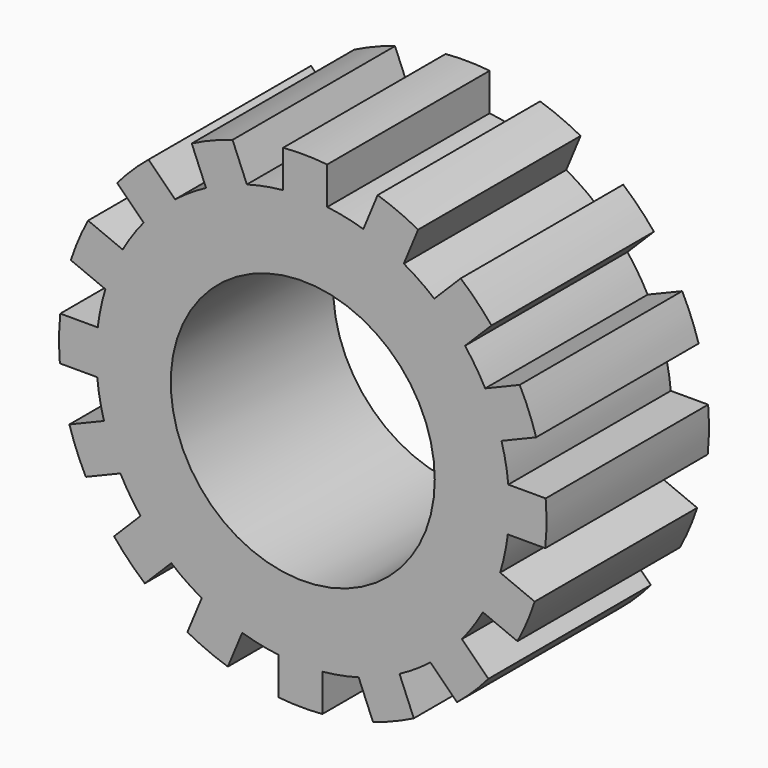
from build123d import *

# Parameters (mm, degrees)
F0_R     = 3.9
F1_DEPTH = 6


with BuildPart() as f1:
    # F0 (on Front) → F1 (new body)
    with BuildSketch(Plane.XZ):
        with BuildLine():
            ThreePointArc((-3.2805490865, 6.4092119399), (-2.6873537016, 6.6763321717), (-2.0745193822, 6.8946623799))
            ThreePointArc((-2.0745193822, 6.8946623799), (-2.68851355, 6.6792136432), (-3.2805490865, 6.4092119399))
        make_face()
        with BuildLine():
            Line((-1.6510477465, 5.8723114136), (-2.0745193822, 6.8946623799))
            ThreePointArc((-2.0745193822, 6.8946623799), (-2.6873537016, 6.6763321717), (-3.2805490865, 6.4092119399))
            Line((-3.2805490865, 6.4092119399), (-2.8579862722, 5.3890550626))
            ThreePointArc((-2.8579862722, 5.3890550626), (-2.2685531961, 5.6657387827), (-1.6510477465, 5.8723114136))
        make_face()
        with BuildLine():
            ThreePointArc((-0.5781329325, 6.0725416682), (-1.119077595, 5.9964710736), (-1.6510477465, 5.8723114136))
            ThreePointArc((-1.6510477465, 5.8723114136), (-2.2674283055, 5.662929355), (-2.8579862722, 5.3890550626))
            ThreePointArc((-2.8579862722, 5.3890550626), (-3.3286430178, 5.1117644371), (-3.7726055079, 4.793479705))
            ThreePointArc((-3.7726055079, 4.793479705), (-4.2619398457, 4.3641572785), (-4.7027371096, 3.8851336757))
            ThreePointArc((-4.7027371096, 3.8851336757), (-5.0314527154, 3.4488380032), (-5.3198182794, 2.9848841642))
            ThreePointArc((-5.3198182794, 2.9848841642), (-5.607609679, 2.4009818176), (-5.8315388526, 1.7897359054))
            ThreePointArc((-5.8315388526, 1.7897359054), (-5.9682693473, 1.2608572472), (-6.0571369422, 0.7218670675))
            ThreePointArc((-6.0571369422, 0.7218670675), (-6.0995717717, 0.0722786399), (-6.0725416682, -0.5781329325))
            ThreePointArc((-6.0725416682, -0.5781329325), (-5.9964710736, -1.119077595), (-5.8723114136, -1.6510477465))
            ThreePointArc((-5.8723114136, -1.6510477465), (-5.662929355, -2.2674283055), (-5.3890550626, -2.8579862722))
            ThreePointArc((-5.3890550626, -2.8579862722), (-5.1117644371, -3.3286430178), (-4.793479705, -3.7726055079))
            ThreePointArc((-4.793479705, -3.7726055079), (-4.3641572785, -4.2619398457), (-3.8851336757, -4.7027371096))
            ThreePointArc((-3.8851336757, -4.7027371096), (-3.4488380032, -5.0314527154), (-2.9848841642, -5.3198182794))
            ThreePointArc((-2.9848841642, -5.3198182794), (-2.4009818176, -5.607609679), (-1.7897359054, -5.8315388526))
            ThreePointArc((-1.7897359054, -5.8315388526), (-1.2608572472, -5.9682693473), (-0.7218670675, -6.0571369422))
            ThreePointArc((-0.7218670675, -6.0571369422), (-0.0722786399, -6.0995717717), (0.5781329325, -6.0725416682))
            ThreePointArc((0.5781329325, -6.0725416682), (1.119077595, -5.9964710736), (1.6510477465, -5.8723114136))
            ThreePointArc((1.6510477465, -5.8723114136), (2.2674283055, -5.662929355), (2.8579862722, -5.3890550626))
            ThreePointArc((2.8579862722, -5.3890550626), (3.3286430178, -5.1117644371), (3.7726055079, -4.793479705))
            ThreePointArc((3.7726055079, -4.793479705), (4.2619398457, -4.3641572785), (4.7027371096, -3.8851336757))
            ThreePointArc((4.7027371096, -3.8851336757), (5.0314527154, -3.4488380032), (5.3198182794, -2.9848841642))
            ThreePointArc((5.3198182794, -2.9848841642), (5.607609679, -2.4009818176), (5.8315388526, -1.7897359054))
            ThreePointArc((5.8315388526, -1.7897359054), (5.9682693473, -1.2608572472), (6.0571369422, -0.7218670675))
            ThreePointArc((6.0571369422, -0.7218670675), (6.0892748069, -0.3615692551), (6.1, 0))
            ThreePointArc((6.1, 0), (6.0931315502, 0.2893923149), (6.0725416682, 0.5781329325))
            ThreePointArc((6.0725416682, 0.5781329325), (5.9964710736, 1.119077595), (5.8723114136, 1.6510477465))
            ThreePointArc((5.8723114136, 1.6510477465), (5.662929355, 2.2674283055), (5.3890550626, 2.8579862722))
            ThreePointArc((5.3890550626, 2.8579862722), (5.1117644371, 3.3286430178), (4.793479705, 3.7726055079))
            ThreePointArc((4.793479705, 3.7726055079), (4.3641572785, 4.2619398457), (3.8851336757, 4.7027371096))
            ThreePointArc((3.8851336757, 4.7027371096), (3.4488380032, 5.0314527154), (2.9848841642, 5.3198182794))
            ThreePointArc((2.9848841642, 5.3198182794), (2.4009818176, 5.607609679), (1.7897359054, 5.8315388526))
            ThreePointArc((1.7897359054, 5.8315388526), (1.2608572472, 5.9682693473), (0.7218670675, 6.0571369422))
            ThreePointArc((0.7218670675, 6.0571369422), (0.0722786399, 6.0995717717), (-0.5781329325, 6.0725416682))
        make_face()
        Circle(F0_R, mode=Mode.SUBTRACT)
        with BuildLine():
            ThreePointArc((-2.8579862722, 5.3890550626), (-2.2674283055, 5.662929355), (-1.6510477465, 5.8723114136))
            ThreePointArc((-1.6510477465, 5.8723114136), (-2.2685531961, 5.6657387827), (-2.8579862722, 5.3890550626))
        make_face()
        with BuildLine():
            ThreePointArc((0.7218670675, 6.0571369422), (0.072314498, 6.1025978215), (-0.5781329325, 6.0725416682))
            ThreePointArc((-0.5781329325, 6.0725416682), (0.0722786399, 6.0995717717), (0.7218670675, 6.0571369422))
        make_face()
        with BuildLine():
            Line((-0.5781329325, 7.1767515153), (-0.5781329325, 6.0725416682))
            ThreePointArc((-0.5781329325, 6.0725416682), (0.072314498, 6.1025978215), (0.7218670675, 6.0571369422))
            Line((0.7218670675, 6.0571369422), (0.7218670675, 7.1637216541))
            ThreePointArc((0.7218670675, 7.1637216541), (0.0721306295, 7.1965323841), (-0.5781329325, 7.1767515153))
        make_face()
        with BuildLine():
            ThreePointArc((-4.7027371096, 3.8851336757), (-4.2640542305, 4.3663223743), (-3.7726055079, 4.793479705))
            Line((-3.7726055079, 4.793479705), (-4.5550790616, 5.5759532587))
            ThreePointArc((-4.5550790616, 5.5759532587), (-5.0377127926, 5.1397209071), (-5.4835313803, 4.6659279464))
            Line((-5.4835313803, 4.6659279464), (-4.7027371096, 3.8851336757))
        make_face()
        with BuildLine():
            ThreePointArc((-4.7027371096, 3.8851336757), (-4.2619398457, 4.3641572785), (-3.7726055079, 4.793479705))
            ThreePointArc((-3.7726055079, 4.793479705), (-4.2640542305, 4.3663223743), (-4.7027371096, 3.8851336757))
        make_face()
        with BuildLine():
            ThreePointArc((0.7218670675, 7.1637216541), (0.0721617607, 7.1996383715), (-0.5781329325, 7.1767515153))
            ThreePointArc((-0.5781329325, 7.1767515153), (0.0721306295, 7.1965323841), (0.7218670675, 7.1637216541))
        make_face()
        with BuildLine():
            ThreePointArc((-5.4835313803, 4.6659279464), (-5.0377127926, 5.1397209071), (-4.5550790616, 5.5759532587))
            ThreePointArc((-4.5550790616, 5.5759532587), (-5.0398870442, 5.1419391849), (-5.4835313803, 4.6659279464))
        make_face()
        with BuildLine():
            ThreePointArc((2.9848841642, 5.3198182794), (2.4021729653, 5.6103916621), (1.7897359054, 5.8315388526))
            ThreePointArc((1.7897359054, 5.8315388526), (2.4009818176, 5.607609679), (2.9848841642, 5.3198182794))
        make_face()
        with BuildLine():
            Line((2.2122987197, 6.8516957299), (1.7897359054, 5.8315388526))
            ThreePointArc((1.7897359054, 5.8315388526), (2.4021729653, 5.6103916621), (2.9848841642, 5.3198182794))
            Line((2.9848841642, 5.3198182794), (3.4083558, 6.3421692457))
            ThreePointArc((3.4083558, 6.3421692457), (2.8206337262, 6.6211257779), (2.2122987197, 6.8516957299))
        make_face()
        with BuildLine():
            ThreePointArc((-5.8315388526, 1.7897359054), (-5.6103916621, 2.4021729653), (-5.3198182794, 2.9848841642))
            Line((-5.3198182794, 2.9848841642), (-6.3421692457, 3.4083558))
            ThreePointArc((-6.3421692457, 3.4083558), (-6.6211257779, 2.8206337262), (-6.8516957299, 2.2122987197))
            Line((-6.8516957299, 2.2122987197), (-5.8315388526, 1.7897359054))
        make_face()
        with BuildLine():
            ThreePointArc((-5.8315388526, 1.7897359054), (-5.607609679, 2.4009818176), (-5.3198182794, 2.9848841642))
            ThreePointArc((-5.3198182794, 2.9848841642), (-5.6103916621, 2.4021729653), (-5.8315388526, 1.7897359054))
        make_face()
        with BuildLine():
            ThreePointArc((3.4083558, 6.3421692457), (2.8218510976, 6.6239834226), (2.2122987197, 6.8516957299))
            ThreePointArc((2.2122987197, 6.8516957299), (2.8206337262, 6.6211257779), (3.4083558, 6.3421692457))
        make_face()
        with BuildLine():
            ThreePointArc((-6.8516957299, 2.2122987197), (-6.6211257779, 2.8206337262), (-6.3421692457, 3.4083558))
            ThreePointArc((-6.3421692457, 3.4083558), (-6.6239834226, 2.8218510976), (-6.8516957299, 2.2122987197))
        make_face()
        with BuildLine():
            ThreePointArc((4.793479705, 3.7726055079), (4.3663223743, 4.2640542305), (3.8851336757, 4.7027371096))
            ThreePointArc((3.8851336757, 4.7027371096), (4.3641572785, 4.2619398457), (4.793479705, 3.7726055079))
        make_face()
        with BuildLine():
            Line((4.6659279464, 5.4835313803), (3.8851336757, 4.7027371096))
            ThreePointArc((3.8851336757, 4.7027371096), (4.3663223743, 4.2640542305), (4.793479705, 3.7726055079))
            Line((4.793479705, 3.7726055079), (5.5759532587, 4.5550790616))
            ThreePointArc((5.5759532587, 4.5550790616), (5.1397209071, 5.0377127926), (4.6659279464, 5.4835313803))
        make_face()
        with BuildLine():
            ThreePointArc((-6.0725416682, -0.5781329325), (-6.1025978215, 0.072314498), (-6.0571369422, 0.7218670675))
            Line((-6.0571369422, 0.7218670675), (-7.1637216541, 0.7218670675))
            ThreePointArc((-7.1637216541, 0.7218670675), (-7.1965323841, 0.0721306295), (-7.1767515153, -0.5781329325))
            Line((-7.1767515153, -0.5781329325), (-6.0725416682, -0.5781329325))
        make_face()
        with BuildLine():
            ThreePointArc((-6.0725416682, -0.5781329325), (-6.0995717717, 0.0722786399), (-6.0571369422, 0.7218670675))
            ThreePointArc((-6.0571369422, 0.7218670675), (-6.1025978215, 0.072314498), (-6.0725416682, -0.5781329325))
        make_face()
        with BuildLine():
            ThreePointArc((5.5759532587, 4.5550790616), (5.1419391849, 5.0398870442), (4.6659279464, 5.4835313803))
            ThreePointArc((4.6659279464, 5.4835313803), (5.1397209071, 5.0377127926), (5.5759532587, 4.5550790616))
        make_face()
        with BuildLine():
            ThreePointArc((-7.1767515153, -0.5781329325), (-7.1965323841, 0.0721306295), (-7.1637216541, 0.7218670675))
            ThreePointArc((-7.1637216541, 0.7218670675), (-7.1996383715, 0.0721617607), (-7.1767515153, -0.5781329325))
        make_face()
        with BuildLine():
            ThreePointArc((5.8723114136, 1.6510477465), (5.6657387827, 2.2685531961), (5.3890550626, 2.8579862722))
            ThreePointArc((5.3890550626, 2.8579862722), (5.662929355, 2.2674283055), (5.8723114136, 1.6510477465))
        make_face()
        with BuildLine():
            Line((6.4092119399, 3.2805490865), (5.3890550626, 2.8579862722))
            ThreePointArc((5.3890550626, 2.8579862722), (5.6657387827, 2.2685531961), (5.8723114136, 1.6510477465))
            Line((5.8723114136, 1.6510477465), (6.8946623799, 2.0745193822))
            ThreePointArc((6.8946623799, 2.0745193822), (6.6763321717, 2.6873537016), (6.4092119399, 3.2805490865))
        make_face()
        with BuildLine():
            ThreePointArc((-5.3890550626, -2.8579862722), (-5.6657387827, -2.2685531961), (-5.8723114136, -1.6510477465))
            Line((-5.8723114136, -1.6510477465), (-6.8946623799, -2.0745193822))
            ThreePointArc((-6.8946623799, -2.0745193822), (-6.6763321717, -2.6873537016), (-6.4092119399, -3.2805490865))
            Line((-6.4092119399, -3.2805490865), (-5.3890550626, -2.8579862722))
        make_face()
        with BuildLine():
            ThreePointArc((-5.3890550626, -2.8579862722), (-5.662929355, -2.2674283055), (-5.8723114136, -1.6510477465))
            ThreePointArc((-5.8723114136, -1.6510477465), (-5.6657387827, -2.2685531961), (-5.3890550626, -2.8579862722))
        make_face()
        with BuildLine():
            ThreePointArc((6.8946623799, 2.0745193822), (6.6792136432, 2.68851355), (6.4092119399, 3.2805490865))
            ThreePointArc((6.4092119399, 3.2805490865), (6.6763321717, 2.6873537016), (6.8946623799, 2.0745193822))
        make_face()
        with BuildLine():
            ThreePointArc((-6.4092119399, -3.2805490865), (-6.6763321717, -2.6873537016), (-6.8946623799, -2.0745193822))
            ThreePointArc((-6.8946623799, -2.0745193822), (-6.6792136432, -2.68851355), (-6.4092119399, -3.2805490865))
        make_face()
        with BuildLine():
            ThreePointArc((6.0571369422, -0.7218670675), (6.1025978215, -0.072314498), (6.0725416682, 0.5781329325))
            ThreePointArc((6.0725416682, 0.5781329325), (6.0931315502, 0.2893923149), (6.1, 0))
            ThreePointArc((6.1, 0), (6.0892748069, -0.3615692551), (6.0571369422, -0.7218670675))
        make_face()
        with BuildLine():
            Line((7.1767515153, 0.5781329325), (6.0725416682, 0.5781329325))
            ThreePointArc((6.0725416682, 0.5781329325), (6.1025978215, -0.072314498), (6.0571369422, -0.7218670675))
            Line((6.0571369422, -0.7218670675), (7.1637216541, -0.7218670675))
            ThreePointArc((7.1637216541, -0.7218670675), (7.1965323841, -0.0721306295), (7.1767515153, 0.5781329325))
        make_face()
        with BuildLine():
            ThreePointArc((-3.8851336757, -4.7027371096), (-4.3663223743, -4.2640542305), (-4.793479705, -3.7726055079))
            Line((-4.793479705, -3.7726055079), (-5.5759532587, -4.5550790616))
            ThreePointArc((-5.5759532587, -4.5550790616), (-5.1397209071, -5.0377127926), (-4.6659279464, -5.4835313803))
            Line((-4.6659279464, -5.4835313803), (-3.8851336757, -4.7027371096))
        make_face()
        with BuildLine():
            ThreePointArc((-3.8851336757, -4.7027371096), (-4.3641572785, -4.2619398457), (-4.793479705, -3.7726055079))
            ThreePointArc((-4.793479705, -3.7726055079), (-4.3663223743, -4.2640542305), (-3.8851336757, -4.7027371096))
        make_face()
        with BuildLine():
            ThreePointArc((7.1637216541, -0.7218670675), (7.1996383715, -0.0721617607), (7.1767515153, 0.5781329325))
            ThreePointArc((7.1767515153, 0.5781329325), (7.1965323841, -0.0721306295), (7.1637216541, -0.7218670675))
        make_face()
        with BuildLine():
            ThreePointArc((-4.6659279464, -5.4835313803), (-5.1397209071, -5.0377127926), (-5.5759532587, -4.5550790616))
            ThreePointArc((-5.5759532587, -4.5550790616), (-5.1419391849, -5.0398870442), (-4.6659279464, -5.4835313803))
        make_face()
        with BuildLine():
            ThreePointArc((5.3198182794, -2.9848841642), (5.6103916621, -2.4021729653), (5.8315388526, -1.7897359054))
            ThreePointArc((5.8315388526, -1.7897359054), (5.607609679, -2.4009818176), (5.3198182794, -2.9848841642))
        make_face()
        with BuildLine():
            Line((6.8516957299, -2.2122987197), (5.8315388526, -1.7897359054))
            ThreePointArc((5.8315388526, -1.7897359054), (5.6103916621, -2.4021729653), (5.3198182794, -2.9848841642))
            Line((5.3198182794, -2.9848841642), (6.3421692457, -3.4083558))
            ThreePointArc((6.3421692457, -3.4083558), (6.6211257779, -2.8206337262), (6.8516957299, -2.2122987197))
        make_face()
        with BuildLine():
            ThreePointArc((-1.7897359054, -5.8315388526), (-2.4021729653, -5.6103916621), (-2.9848841642, -5.3198182794))
            Line((-2.9848841642, -5.3198182794), (-3.4083558, -6.3421692457))
            ThreePointArc((-3.4083558, -6.3421692457), (-2.8206337262, -6.6211257779), (-2.2122987197, -6.8516957299))
            Line((-2.2122987197, -6.8516957299), (-1.7897359054, -5.8315388526))
        make_face()
        with BuildLine():
            ThreePointArc((-1.7897359054, -5.8315388526), (-2.4009818176, -5.607609679), (-2.9848841642, -5.3198182794))
            ThreePointArc((-2.9848841642, -5.3198182794), (-2.4021729653, -5.6103916621), (-1.7897359054, -5.8315388526))
        make_face()
        with BuildLine():
            ThreePointArc((6.3421692457, -3.4083558), (6.6239834226, -2.8218510976), (6.8516957299, -2.2122987197))
            ThreePointArc((6.8516957299, -2.2122987197), (6.6211257779, -2.8206337262), (6.3421692457, -3.4083558))
        make_face()
        with BuildLine():
            ThreePointArc((-2.2122987197, -6.8516957299), (-2.8206337262, -6.6211257779), (-3.4083558, -6.3421692457))
            ThreePointArc((-3.4083558, -6.3421692457), (-2.8218510976, -6.6239834226), (-2.2122987197, -6.8516957299))
        make_face()
        with BuildLine():
            ThreePointArc((3.7726055079, -4.793479705), (4.2640542305, -4.3663223743), (4.7027371096, -3.8851336757))
            ThreePointArc((4.7027371096, -3.8851336757), (4.2619398457, -4.3641572785), (3.7726055079, -4.793479705))
        make_face()
        with BuildLine():
            Line((5.4835313803, -4.6659279464), (4.7027371096, -3.8851336757))
            ThreePointArc((4.7027371096, -3.8851336757), (4.2640542305, -4.3663223743), (3.7726055079, -4.793479705))
            Line((3.7726055079, -4.793479705), (4.5550790616, -5.5759532587))
            ThreePointArc((4.5550790616, -5.5759532587), (5.0377127926, -5.1397209071), (5.4835313803, -4.6659279464))
        make_face()
        with BuildLine():
            ThreePointArc((0.5781329325, -6.0725416682), (-0.072314498, -6.1025978215), (-0.7218670675, -6.0571369422))
            Line((-0.7218670675, -6.0571369422), (-0.7218670675, -7.1637216541))
            ThreePointArc((-0.7218670675, -7.1637216541), (-0.0721306295, -7.1965323841), (0.5781329325, -7.1767515153))
            Line((0.5781329325, -7.1767515153), (0.5781329325, -6.0725416682))
        make_face()
        with BuildLine():
            ThreePointArc((0.5781329325, -6.0725416682), (-0.0722786399, -6.0995717717), (-0.7218670675, -6.0571369422))
            ThreePointArc((-0.7218670675, -6.0571369422), (-0.072314498, -6.1025978215), (0.5781329325, -6.0725416682))
        make_face()
        with BuildLine():
            ThreePointArc((4.5550790616, -5.5759532587), (5.0398870442, -5.1419391849), (5.4835313803, -4.6659279464))
            ThreePointArc((5.4835313803, -4.6659279464), (5.0377127926, -5.1397209071), (4.5550790616, -5.5759532587))
        make_face()
        with BuildLine():
            ThreePointArc((0.5781329325, -7.1767515153), (-0.0721306295, -7.1965323841), (-0.7218670675, -7.1637216541))
            ThreePointArc((-0.7218670675, -7.1637216541), (-0.0721617607, -7.1996383715), (0.5781329325, -7.1767515153))
        make_face()
        with BuildLine():
            ThreePointArc((1.6510477465, -5.8723114136), (2.2685531961, -5.6657387827), (2.8579862722, -5.3890550626))
            ThreePointArc((2.8579862722, -5.3890550626), (2.2674283055, -5.662929355), (1.6510477465, -5.8723114136))
        make_face()
        with BuildLine():
            Line((3.2805490865, -6.4092119399), (2.8579862722, -5.3890550626))
            ThreePointArc((2.8579862722, -5.3890550626), (2.2685531961, -5.6657387827), (1.6510477465, -5.8723114136))
            Line((1.6510477465, -5.8723114136), (2.0745193822, -6.8946623799))
            ThreePointArc((2.0745193822, -6.8946623799), (2.6873537016, -6.6763321717), (3.2805490865, -6.4092119399))
        make_face()
        with BuildLine():
            ThreePointArc((2.0745193822, -6.8946623799), (2.68851355, -6.6792136432), (3.2805490865, -6.4092119399))
            ThreePointArc((3.2805490865, -6.4092119399), (2.6873537016, -6.6763321717), (2.0745193822, -6.8946623799))
        make_face()
    extrude(amount=F1_DEPTH)


solid = f1.part
